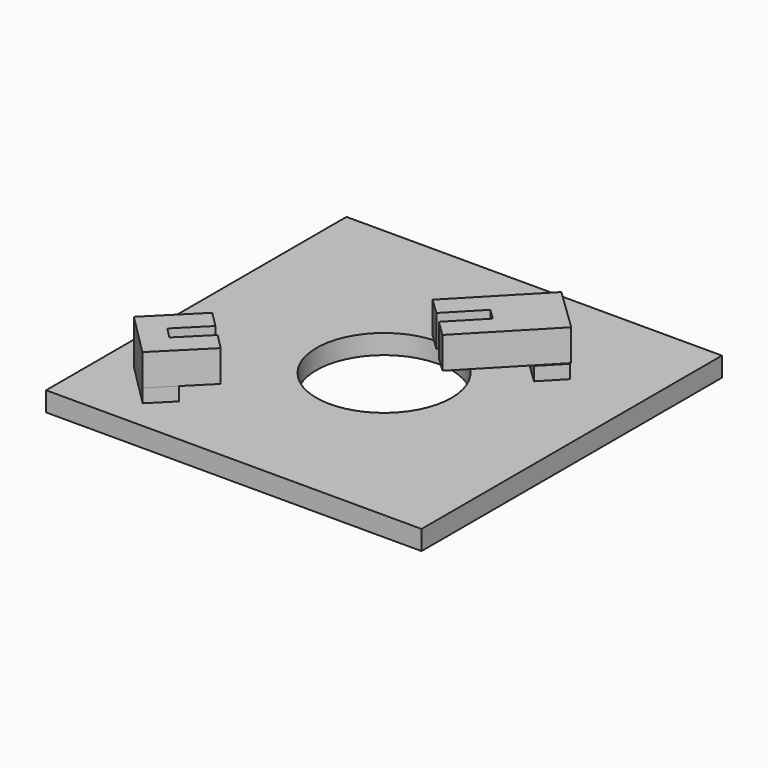
from build123d import *

# Parameters (mm, degrees)
SKETCH005_AS_DRAWN_W                      = 2.001689
SKETCH005_AS_DRAWN_H                      = 5.775478
EXTRUDE002_DEPTH                          = 4.5
EXTRUDE002_ONTO_SKETCH005_PLACEMENT_ANGLE = 136
BOX004_W                                  = 8
BOX004_H                                  = 13.5
BOX004_DEPTH                              = 4.2
BOX004_PLACEMENT_ANGLE                    = 136
BOX002_W                                  = 8
BOX002_H                                  = 3.8
BOX002_DEPTH                              = 1.8
BOX002_PLACEMENT_ANGLE                    = 136
SKETCH006_AS_DRAWN_W                      = 2.041283
SKETCH006_AS_DRAWN_H                      = 5.043286
EXTRUDE003_DEPTH                          = 4.5
EXTRUDE003_ONTO_SKETCH006_PLACEMENT_ANGLE = 135
BOX003_W                                  = 8
BOX003_H                                  = 8.2
BOX003_DEPTH                              = 4.2
BOX003_PLACEMENT_ANGLE                    = 135
BOX001_W                                  = 8
BOX001_H                                  = 3.8
BOX001_DEPTH                              = 1.8
BOX001_PLACEMENT_ANGLE                    = 135
CYLINDER_R                                = 9
CYLINDER_DEPTH                            = 2.6
BOX_W                                     = 50
BOX_H                                     = 50
BOX_DEPTH                                 = 2.6


with BuildPart() as extrude002:
    # Sketch005 as drawn → Extrude002 (new)
    with BuildSketch(Plane.XY):
        with Locations((3.978826, 10.728564)):
            Rectangle(SKETCH005_AS_DRAWN_W, SKETCH005_AS_DRAWN_H)
    extrude(amount=EXTRUDE002_DEPTH)


with BuildPart() as extrude002_1:
    # Extrude002 onto Sketch005 placement: moved
    add(extrude002.part.moved(Location((47.02, 42.01, 12.52))).rotate(Axis((47.02, 42.01, 12.52), (0, 0, 1)), EXTRUDE002_ONTO_SKETCH005_PLACEMENT_ANGLE))


with BuildPart() as extrude002_2:
    # Extrude002 placement: moved
    add(extrude002_1.part.moved(Location((0, 0, -4.5))))


with BuildPart() as cut003:
    # Box004 → Box004 (new body)
    with BuildSketch(Plane.XY):
        with Locations((4, 6.75)):
            Rectangle(BOX004_W, BOX004_H)
    extrude(amount=BOX004_DEPTH)


with BuildPart() as cut003_1:
    # Box004 placement: moved
    add(cut003.part.moved(Location((47.02, 42.01, 8.32))).rotate(Axis((47.02, 42.01, 8.32), (0, 0, 1)), BOX004_PLACEMENT_ANGLE))

    # Cut003: cut Extrude002
    add(extrude002_2.part, mode=Mode.SUBTRACT)


with BuildPart() as cut003_2:
    # Cut003 placement: moved
    add(cut003_1.part.moved(Location((-5.975619, -5.901068, -3.867182))))


with BuildPart() as fusion:
    # Box002 → Box002 (new body)
    with BuildSketch(Plane.XY):
        with Locations((4, 1.9)):
            Rectangle(BOX002_W, BOX002_H)
    extrude(amount=BOX002_DEPTH)


with BuildPart() as fusion_1:
    # Box002 placement: moved
    add(fusion.part.moved(Location((41, 36, 2.6))).rotate(Axis((41, 36, 2.6), (0, 0, 1)), BOX002_PLACEMENT_ANGLE))

    # Fusion: union Cut003
    add(cut003_2.part)


with BuildPart() as extrude003:
    # Sketch006 as drawn → Extrude003 (new)
    with BuildSketch(Plane.XY):
        with Locations((3.988122, 2.521643)):
            Rectangle(SKETCH006_AS_DRAWN_W, SKETCH006_AS_DRAWN_H)
    extrude(amount=EXTRUDE003_DEPTH)


with BuildPart() as extrude003_1:
    # Extrude003 onto Sketch006 placement: moved
    add(extrude003.part.moved(Location((15.55, 9.66, 12.99))).rotate(Axis((15.55, 9.66, 12.99), (0, 0, 1)), EXTRUDE003_ONTO_SKETCH006_PLACEMENT_ANGLE))


with BuildPart() as extrude003_2:
    # Extrude003 placement: moved
    add(extrude003_1.part.moved(Location((0, 0, -4.5))))


with BuildPart() as cut004:
    # Box003 → Box003 (new body)
    with BuildSketch(Plane.XY):
        with Locations((4, 4.1)):
            Rectangle(BOX003_W, BOX003_H)
    extrude(amount=BOX003_DEPTH)


with BuildPart() as cut004_1:
    # Box003 placement: moved
    add(cut004.part.moved(Location((15.55, 9.66, 8.79))).rotate(Axis((15.55, 9.66, 8.79), (0, 0, 1)), BOX003_PLACEMENT_ANGLE))

    # Cut004: cut Extrude003
    add(extrude003_2.part, mode=Mode.SUBTRACT)


with BuildPart() as cut004_2:
    # Cut004 placement: moved
    add(cut004_1.part.moved(Location((-0.080851, 0.078243, -4.376037))))


with BuildPart() as fusion001:
    # Box001 → Box001 (new body)
    with BuildSketch(Plane.XY):
        with Locations((4, 1.9)):
            Rectangle(BOX001_W, BOX001_H)
    extrude(amount=BOX001_DEPTH)


with BuildPart() as fusion001_1:
    # Box001 placement: moved
    add(fusion001.part.moved(Location((12.36, 6.67, 2.6))).rotate(Axis((12.36, 6.67, 2.6), (0, 0, 1)), BOX001_PLACEMENT_ANGLE))

    # Fusion001: union Cut004
    add(cut004_2.part)


with BuildPart() as cylinder:
    # Cylinder → Cylinder (new body)
    with BuildSketch(Plane(origin=(25, 25, 0), x_dir=(1, 0, 0), z_dir=(0, 0, 1))):
        Circle(CYLINDER_R)
    extrude(amount=CYLINDER_DEPTH)


with BuildPart() as fusion002:
    # Box → Box (new body)
    with BuildSketch(Plane.XY):
        with Locations((25, 25)):
            Rectangle(BOX_W, BOX_H)
    extrude(amount=BOX_DEPTH)

    # Cut: cut Cylinder
    add(cylinder.part, mode=Mode.SUBTRACT)

    # Fusion002: union Fusion, Fusion001
    add(fusion_1.part)
    add(fusion001_1.part)


solid = fusion002.part
